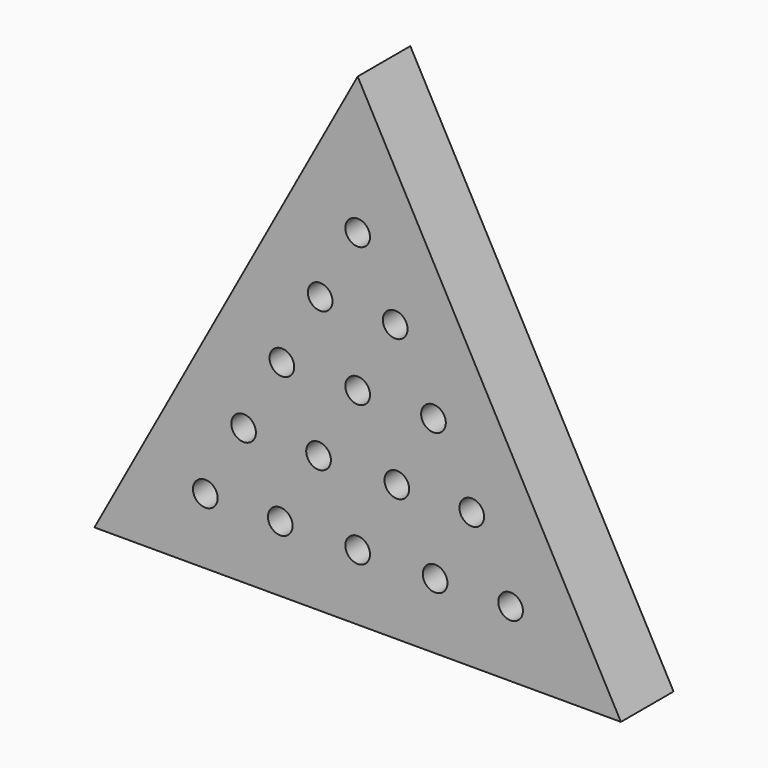
from build123d import *

# Parameters (mm, degrees)
F0_R     = 3.571875
F1_DEPTH = 19.05
F2_DEPTH = 9.525


with BuildPart() as f1:
    # F0 (on Front) → F1 (new body)
    with BuildSketch(Plane.XZ):
        Polygon((71.744167, -80.01), (-4.455833, 59.69), (-80.655833, -80.01), align=None)
        with Locations((-48.565304, -60.96)):
            Circle(F0_R, mode=Mode.SUBTRACT)
        with Locations((-26.865684, -60.96)):
            Circle(F0_R, mode=Mode.SUBTRACT)
        with Locations((-37.481668, -40.64)):
            Circle(F0_R, mode=Mode.SUBTRACT)
        with Locations((-15.782048, -40.64)):
            Circle(F0_R, mode=Mode.SUBTRACT)
        with Locations((-26.398031, -20.32)):
            Circle(F0_R, mode=Mode.SUBTRACT)
        with Locations((-4.455833, -20.32)):
            Circle(F0_R, mode=Mode.SUBTRACT)
        with Locations((-4.455833, -60.96)):
            Circle(F0_R, mode=Mode.SUBTRACT)
        with Locations((17.954019, -60.96)):
            Circle(F0_R, mode=Mode.SUBTRACT)
        with Locations((39.806256, -60.96)):
            Circle(F0_R, mode=Mode.SUBTRACT)
        with Locations((6.870383, -40.64)):
            Circle(F0_R, mode=Mode.SUBTRACT)
        with Locations((28.570002, -40.64)):
            Circle(F0_R, mode=Mode.SUBTRACT)
        with Locations((17.486366, -20.32)):
            Circle(F0_R, mode=Mode.SUBTRACT)
        with Locations((-15.314395, 0)):
            Circle(F0_R, mode=Mode.SUBTRACT)
        with Locations((-4.455833, 19.907364)):
            Circle(F0_R, mode=Mode.SUBTRACT)
        with Locations((6.40273, 0)):
            Circle(F0_R, mode=Mode.SUBTRACT)
    extrude(amount=F1_DEPTH)

    # F0 (on Front) → F2 (join)
    with BuildSketch(Plane.XZ):
        with Locations((-4.455833, 19.907364)):
            Circle(F0_R)
        with Locations((-15.314395, 0)):
            Circle(F0_R)
        with Locations((6.40273, 0)):
            Circle(F0_R)
        with Locations((17.486366, -20.32)):
            Circle(F0_R)
        with Locations((-4.455833, -20.32)):
            Circle(F0_R)
        with Locations((-26.398031, -20.32)):
            Circle(F0_R)
        with Locations((-37.481668, -40.64)):
            Circle(F0_R)
        with Locations((-15.782048, -40.64)):
            Circle(F0_R)
        with Locations((6.870383, -40.64)):
            Circle(F0_R)
        with Locations((28.570002, -40.64)):
            Circle(F0_R)
        with Locations((39.806256, -60.96)):
            Circle(F0_R)
        with Locations((17.954019, -60.96)):
            Circle(F0_R)
        with Locations((-4.455833, -60.96)):
            Circle(F0_R)
        with Locations((-26.865684, -60.96)):
            Circle(F0_R)
        with Locations((-48.565304, -60.96)):
            Circle(F0_R)
    extrude(amount=F2_DEPTH)


solid = f1.part
